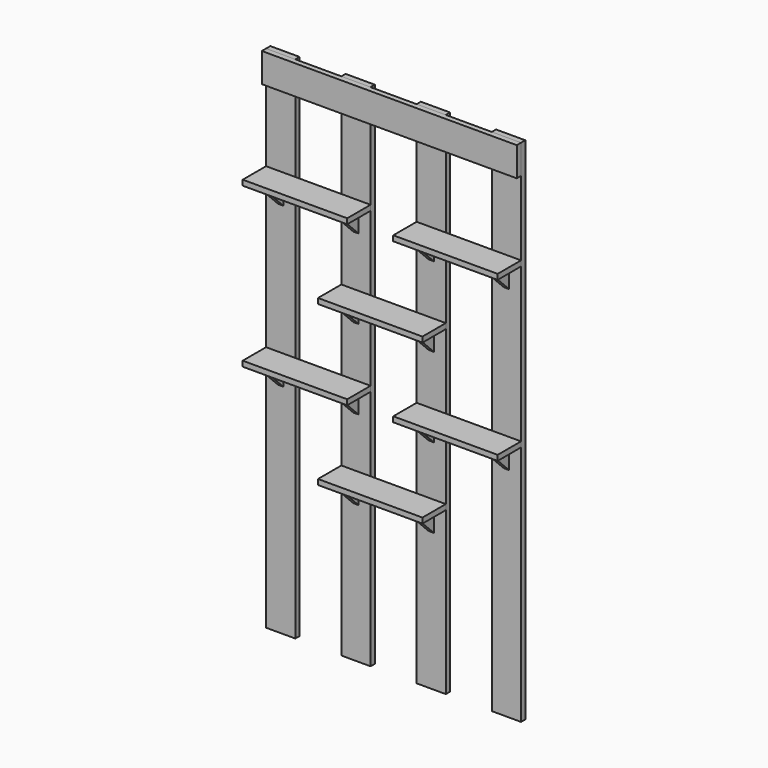
from build123d import *

# Parameters (mm, degrees)
F2_W      = 139.7
F2_H      = 2438.4
F3_DEPTH  = 25.4
F1_W      = 1219.2
F1_H      = 139.7
F4_DEPTH  = 25.4
F5_W      = 499.618
F5_H      = 25.4
F6_DEPTH  = 139.7
F5_W_2    = 499.364
F8_R      = 15.875
F9_DEPTH  = 25.4
F12_DEPTH = 25.4


with BuildPart() as f3:
    # F2 (on Front) → F3 (new body)
    with BuildSketch(Plane.XZ):
        with Locations((-539.75, -1079.5)):
            Rectangle(F2_W, F2_H)
    extrude(amount=F3_DEPTH)


with BuildPart() as f3b:
    # F2 (on Front) → F3, piece 2 (new body)
    with BuildSketch(Plane.XZ):
        with Locations((180.086, -1079.5)):
            Rectangle(F2_W, F2_H)
    extrude(amount=F3_DEPTH)


with BuildPart() as f3c:
    # F2 (on Front) → F3, piece 3 (new body)
    with BuildSketch(Plane.XZ):
        with Locations((539.75, -1079.5)):
            Rectangle(F2_W, F2_H)
    extrude(amount=F3_DEPTH)


with BuildPart() as f3d:
    # F2 (on Front) → F3, piece 4 (new body)
    with BuildSketch(Plane.XZ):
        with Locations((-179.832, -1079.5)):
            Rectangle(F2_W, F2_H)
    extrude(amount=F3_DEPTH)


with BuildPart() as f4:
    # F1 (on offset) → F4 (new body)
    with BuildSketch(Plane.XZ.offset(25.4)):
        with Locations((0, 69.85)):
            Rectangle(F1_W, F1_H)
    extrude(amount=F4_DEPTH)


with BuildPart() as f6:
    # F5 (on face) → F6 (new body)
    with BuildSketch(Plane.XZ.offset(25.4)):
        with Locations((-359.791, -368.3)):
            Rectangle(F5_W, F5_H)
    extrude(amount=F6_DEPTH)


with BuildPart() as f6b:
    # F5 (on face) → F6, piece 2 (new body)
    with BuildSketch(Plane.XZ.offset(25.4)):
        with Locations((0.127, -749.3)):
            Rectangle(F5_W, F5_H)
    extrude(amount=F6_DEPTH)


with BuildPart() as f6c:
    # F5 (on face) → F6, piece 3 (new body)
    with BuildSketch(Plane.XZ.offset(25.4)):
        with Locations((359.918, -368.3)):
            Rectangle(F5_W_2, F5_H)
    extrude(amount=F6_DEPTH)


with BuildPart() as f6d:
    # F5 (on face) → F6, piece 4 (new body)
    with BuildSketch(Plane.XZ.offset(25.4)):
        with Locations((-359.791, -1130.3)):
            Rectangle(F5_W, F5_H)
    extrude(amount=F6_DEPTH)


with BuildPart() as f6e:
    # F5 (on face) → F6, piece 5 (new body)
    with BuildSketch(Plane.XZ.offset(25.4)):
        with Locations((0.127, -1511.3)):
            Rectangle(F5_W, F5_H)
    extrude(amount=F6_DEPTH)


with BuildPart() as f6f:
    # F5 (on face) → F6, piece 6 (new body)
    with BuildSketch(Plane.XZ.offset(25.4)):
        with Locations((359.918, -1130.3)):
            Rectangle(F5_W_2, F5_H)
    extrude(amount=F6_DEPTH)


with BuildPart() as f9:
    # F8 (on offset) → F9 (new body)
    with BuildSketch(Plane.YZ.offset(527.05)):
        Polygon((-139.7, -381), (-25.4, -495.3), (-25.6870295873, -381), align=None)
        with Locations((-57.6219541111, -413.0961237742)):
            Circle(F8_R, mode=Mode.SUBTRACT)
    extrude(amount=F9_DEPTH)


with BuildPart() as f9b:
    # F8 (on offset) → F9, piece 2 (new body)
    with BuildSketch(Plane.YZ.offset(527.05)):
        Polygon((-140.1776322007, -1143), (-25.4, -1257.3012319016), (-25.4, -1143), align=None)
        with BuildLine():
            ThreePointArc((-68.2134990621, -1178.0982422456), (-75.9634175951, -1163.3905258093), (-59.374539165, -1164.4801461424))
            ThreePointArc((-59.374539165, -1164.4801461424), (-48.6679574891, -1159.4392138085), (-41.3166771753, -1168.7128629137))
            ThreePointArc((-41.3166771753, -1168.7128629137), (-44.1879166442, -1175.5285137112), (-51.0706080508, -1178.2351113695))
            ThreePointArc((-51.0706080508, -1178.2351113695), (-50.3831609032, -1180.2263567741), (-50.1502138249, -1182.3200084884))
            ThreePointArc((-50.1502138249, -1182.3200084884), (-61.842984352, -1191.5950500485), (-68.2134990621, -1178.0982422456))
        make_face(mode=Mode.SUBTRACT)
    extrude(amount=F9_DEPTH)


with BuildPart() as f12:
    # F11 (on offset) → F12 (new body)
    with BuildSketch(Plane.YZ.offset(167.386)):
        Polygon((-139.4271376938, -381), (-25.4, -495.2991886284), (-25.4, -381), align=None)
    extrude(amount=F12_DEPTH)


with BuildPart() as f12b:
    # F11 (on offset) → F12, piece 2 (new body)
    with BuildSketch(Plane.YZ.offset(167.386)):
        Polygon((-140.1776322007, -1143), (-25.4, -1257.3002576828), (-25.4, -1143), align=None)
    extrude(amount=F12_DEPTH)


with BuildPart() as f12c:
    # F11 (on offset) → F12, piece 3 (new body)
    with BuildSketch(Plane.YZ.offset(167.386)):
        Polygon((-139.1433354586, -762), (-25.4, -876.299364799), (-25.4, -762), align=None)
    extrude(amount=F12_DEPTH)


with BuildPart() as f12d:
    # F11 (on offset) → F12, piece 4 (new body)
    with BuildSketch(Plane.YZ.offset(167.386)):
        Polygon((-140.1776322007, -1524), (-25.4, -1638.6834383011), (-25.4, -1524), align=None)
    extrude(amount=F12_DEPTH)


with BuildPart() as f13_1:
    # F13: instance of F12
    add(f12.part.mirror(Plane.YZ))


with BuildPart() as f13_2:
    # F13: instance of F9
    add(f9.part.mirror(Plane.YZ))


with BuildPart() as f13_3:
    # F13: instance of F12c
    add(f12c.part.mirror(Plane.YZ))


with BuildPart() as f13_4:
    # F13: instance of F12b
    add(f12b.part.mirror(Plane.YZ))


with BuildPart() as f13_5:
    # F13: instance of F9b
    add(f9b.part.mirror(Plane.YZ))


with BuildPart() as f13_6:
    # F13: instance of F12d
    add(f12d.part.mirror(Plane.YZ))


solid = Compound([f3.part, f3b.part, f3c.part, f3d.part, f4.part, f6.part, f6b.part, f6c.part, f6d.part, f6e.part, f6f.part, f9.part, f9b.part, f12.part, f12b.part, f12c.part, f12d.part, f13_1.part, f13_2.part, f13_3.part, f13_4.part, f13_5.part, f13_6.part])
